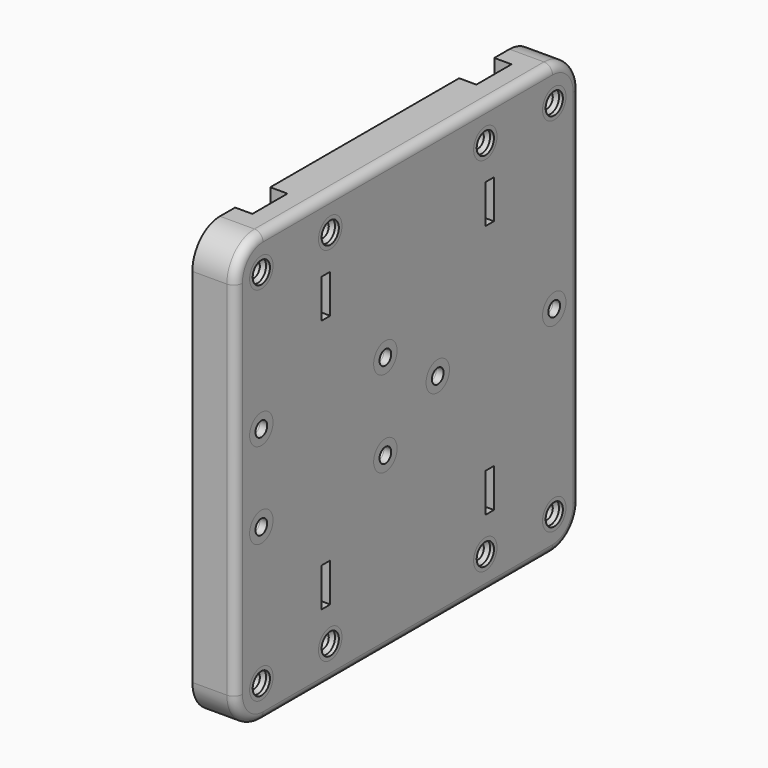
from build123d import *

# Parameters (mm, degrees)
SKETCH001_W     = 100
SKETCH001_H     = 100
SKETCH001_R     = 1.7
PAD_DEPTH       = 10
SKETCH004_W     = 10.2
SKETCH004_H     = 100
POCKET_DEPTH    = 4
FILLET_R        = 8
FILLET001_R     = 8
FILLET002_R     = 8
FILLET003_R     = 8
FILLET004_R     = 2
SKETCH_W        = 2.5
SKETCH_H        = 9
POCKET002_DEPTH = 10.001
SKETCH005_R     = 2.5
POCKET001_DEPTH = 5
CHAMFER_SIZE    = 1.7
CHAMFER001_SIZE = 1.7
CHAMFER002_SIZE = 1.7
CHAMFER003_SIZE = 1.7
CHAMFER004_SIZE = 1.7
CHAMFER005_SIZE = 1.7
CHAMFER006_SIZE = 1.7
CHAMFER007_SIZE = 1.7
CHAMFER008_SIZE = 1.7
CHAMFER009_SIZE = 1.7
CHAMFER010_SIZE = 1.7
CHAMFER011_SIZE = 1.7
CHAMFER012_SIZE = 1.7
CHAMFER013_SIZE = 1.7


with BuildPart() as pocket002:
    # Sketch001 → Pad (new body)
    with BuildSketch(Plane(origin=(-86, 0, 0), x_dir=(0, -1, 0), z_dir=(-1, 0, 0))):
        Rectangle(SKETCH001_W, SKETCH001_H)
        with Locations((42.5, 42)):
            Circle(SKETCH001_R, mode=Mode.SUBTRACT)
        with Locations((42.5, -42)):
            Circle(SKETCH001_R, mode=Mode.SUBTRACT)
        with Locations((22.5, 42)):
            Circle(SKETCH001_R, mode=Mode.SUBTRACT)
        with Locations((22.5, -42)):
            Circle(SKETCH001_R, mode=Mode.SUBTRACT)
        with Locations((-22.5, 42)):
            Circle(SKETCH001_R, mode=Mode.SUBTRACT)
        with Locations((-42.5, 42)):
            Circle(SKETCH001_R, mode=Mode.SUBTRACT)
        with Locations((-42.5, -42)):
            Circle(SKETCH001_R, mode=Mode.SUBTRACT)
        with Locations((-22.5, -42)):
            Circle(SKETCH001_R, mode=Mode.SUBTRACT)
        with Locations((6.5, 10)):
            Circle(SKETCH001_R, mode=Mode.SUBTRACT)
        with Locations((42.5, 10)):
            Circle(SKETCH001_R, mode=Mode.SUBTRACT)
        with Locations((6.5, -10)):
            Circle(SKETCH001_R, mode=Mode.SUBTRACT)
        with Locations((42.5, -10)):
            Circle(SKETCH001_R, mode=Mode.SUBTRACT)
        with Locations((-42.5, 0)):
            Circle(SKETCH001_R, mode=Mode.SUBTRACT)
        with Locations((-8.7, 0)):
            Circle(SKETCH001_R, mode=Mode.SUBTRACT)
    extrude(amount=PAD_DEPTH)

    # Sketch004 → Pocket (cut)
    with BuildSketch(Plane(origin=(-96, 0, 0), x_dir=(0, -1, 0), z_dir=(-1, 0, 0))):
        with Locations((-32.5, 0)):
            Rectangle(SKETCH004_W, SKETCH004_H)
        with Locations((32.5, 0)):
            Rectangle(SKETCH004_W, SKETCH004_H)
    extrude(amount=-POCKET_DEPTH, mode=Mode.SUBTRACT)

    # Fillet
    fillet_edges = [pocket002.edges().sort_by_distance(p)[0] for p in [
        (-91, -50, 50),
    ]]
    fillet(fillet_edges, radius=FILLET_R)

    # Fillet001
    fillet001_edges = [pocket002.edges().sort_by_distance(p)[0] for p in [
        (-91, 50, -50),
    ]]
    fillet(fillet001_edges, radius=FILLET001_R)

    # Fillet002
    fillet002_edges = [pocket002.edges().sort_by_distance(p)[0] for p in [
        (-91, 50, 50),
    ]]
    fillet(fillet002_edges, radius=FILLET002_R)

    # Fillet003
    fillet003_edges = [pocket002.edges().sort_by_distance(p)[0] for p in [
        (-91, -50, -50),
    ]]
    fillet(fillet003_edges, radius=FILLET003_R)

    # Fillet004
    fillet004_edges = [pocket002.edges().sort_by_distance(p)[0] for p in [
        (-86, 0, -50),
    ]]
    fillet(fillet004_edges, radius=FILLET004_R)

    # Sketch → Pocket002 (cut, through all)
    with BuildSketch(Plane(origin=(-86, 0, 0), x_dir=(0, -1, 0), z_dir=(1, 0, 0))):
        with Locations((-23.75, 29.5)):
            Rectangle(SKETCH_W, SKETCH_H)
        with Locations((23.75, 29.5)):
            Rectangle(SKETCH_W, SKETCH_H)
        with Locations((-23.75, -29.5)):
            Rectangle(SKETCH_W, SKETCH_H)
        with Locations((23.75, -29.5)):
            Rectangle(SKETCH_W, SKETCH_H)
    extrude(amount=-POCKET002_DEPTH, mode=Mode.SUBTRACT)


with BuildPart() as obj1:
    # Pocket001 base: copy of Pocket002
    add(pocket002.part)

    # Sketch005 → Pocket001 (cut)
    with BuildSketch(Plane(origin=(-86, 0, 0), x_dir=(0, -1, 0), z_dir=(1, 0, 0))):
        with Locations((42.5, 42)):
            Circle(SKETCH005_R)
        with Locations((42.5, -42)):
            Circle(SKETCH005_R)
        with Locations((22.5, 42)):
            Circle(SKETCH005_R)
        with Locations((22.5, -42)):
            Circle(SKETCH005_R)
        with Locations((-22.5, 42)):
            Circle(SKETCH005_R)
        with Locations((-42.5, 42)):
            Circle(SKETCH005_R)
        with Locations((-42.5, -42)):
            Circle(SKETCH005_R)
        with Locations((-22.5, -42)):
            Circle(SKETCH005_R)
    extrude(amount=-POCKET001_DEPTH, mode=Mode.SUBTRACT)


with BuildPart() as obj2:
    # Chamfer base: copy of Pocket002
    add(pocket002.part)

    # Chamfer
    chamfer_edges = [obj2.edges().sort_by_distance(p)[0] for p in [
        (-86, 44.2, -42),
    ]]
    chamfer(chamfer_edges, length=CHAMFER_SIZE)

    # Chamfer001
    chamfer001_edges = [obj2.edges().sort_by_distance(p)[0] for p in [
        (-86, 24.2, -42),
    ]]
    chamfer(chamfer001_edges, length=CHAMFER001_SIZE)

    # Chamfer002
    chamfer002_edges = [obj2.edges().sort_by_distance(p)[0] for p in [
        (-86, -20.8, -42),
    ]]
    chamfer(chamfer002_edges, length=CHAMFER002_SIZE)

    # Chamfer003
    chamfer003_edges = [obj2.edges().sort_by_distance(p)[0] for p in [
        (-86, -40.8, -42),
    ]]
    chamfer(chamfer003_edges, length=CHAMFER003_SIZE)

    # Chamfer004
    chamfer004_edges = [obj2.edges().sort_by_distance(p)[0] for p in [
        (-86, -40.8, 42),
    ]]
    chamfer(chamfer004_edges, length=CHAMFER004_SIZE)

    # Chamfer005
    chamfer005_edges = [obj2.edges().sort_by_distance(p)[0] for p in [
        (-86, -20.8, 42),
    ]]
    chamfer(chamfer005_edges, length=CHAMFER005_SIZE)

    # Chamfer006
    chamfer006_edges = [obj2.edges().sort_by_distance(p)[0] for p in [
        (-86, 24.2, 42),
    ]]
    chamfer(chamfer006_edges, length=CHAMFER006_SIZE)

    # Chamfer007
    chamfer007_edges = [obj2.edges().sort_by_distance(p)[0] for p in [
        (-86, 44.2, 42),
    ]]
    chamfer(chamfer007_edges, length=CHAMFER007_SIZE)

    # Chamfer008
    chamfer008_edges = [obj2.edges().sort_by_distance(p)[0] for p in [
        (-86, 44.2, 0),
    ]]
    chamfer(chamfer008_edges, length=CHAMFER008_SIZE)

    # Chamfer009
    chamfer009_edges = [obj2.edges().sort_by_distance(p)[0] for p in [
        (-86, 10.4, 0),
    ]]
    chamfer(chamfer009_edges, length=CHAMFER009_SIZE)

    # Chamfer010
    chamfer010_edges = [obj2.edges().sort_by_distance(p)[0] for p in [
        (-86, -4.8, -10),
    ]]
    chamfer(chamfer010_edges, length=CHAMFER010_SIZE)

    # Chamfer011
    chamfer011_edges = [obj2.edges().sort_by_distance(p)[0] for p in [
        (-86, -4.8, 10),
    ]]
    chamfer(chamfer011_edges, length=CHAMFER011_SIZE)

    # Chamfer012
    chamfer012_edges = [obj2.edges().sort_by_distance(p)[0] for p in [
        (-86, -40.8, -10),
    ]]
    chamfer(chamfer012_edges, length=CHAMFER012_SIZE)

    # Chamfer013
    chamfer013_edges = [obj2.edges().sort_by_distance(p)[0] for p in [
        (-86, -40.8, 10),
    ]]
    chamfer(chamfer013_edges, length=CHAMFER013_SIZE)


solid = Compound([obj1.part, obj2.part])
